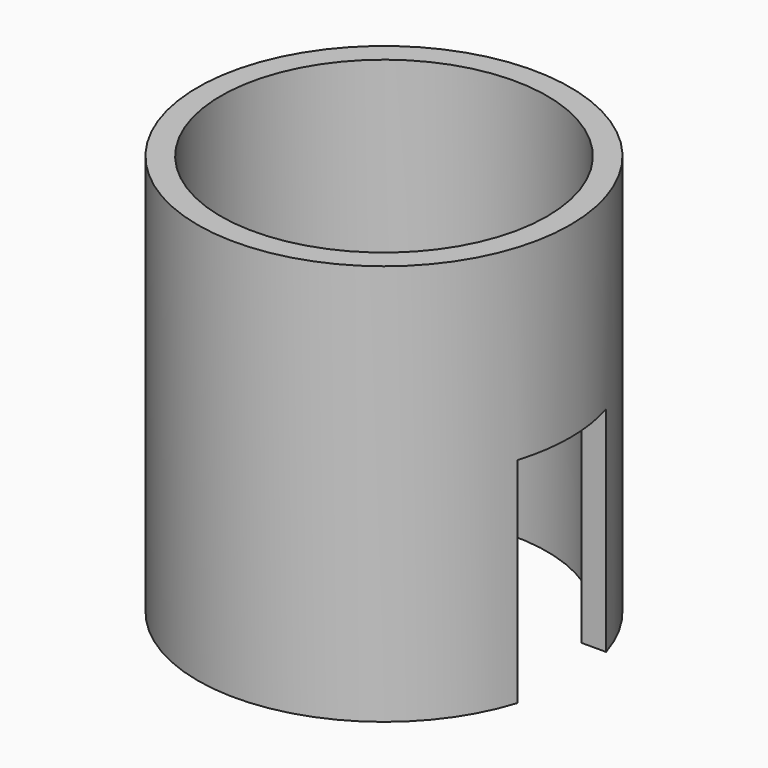
from build123d import *

# Parameters (mm, degrees)
SKETCH_R     = 20.9
SKETCH_R_2   = 18.3
PAD_DEPTH    = 45
SKETCH001_W  = 8.507418
SKETCH001_H  = 12.4
POCKET_DEPTH = 24


with BuildPart() as part:
    # Sketch → Pad (new body)
    with BuildSketch(Plane.XY):
        Circle(SKETCH_R)
        Circle(SKETCH_R_2, mode=Mode.SUBTRACT)
    extrude(amount=PAD_DEPTH)

    # Sketch001 (on Face3 of Pad) → Pocket (cut)
    with BuildSketch(Plane(origin=(0, 0, 0), x_dir=(1, 0, 0), z_dir=(0, 0, -1))):
        with Locations((20.392255, 0)):
            Rectangle(SKETCH001_W, SKETCH001_H)
    extrude(amount=-POCKET_DEPTH, mode=Mode.SUBTRACT)


solid = part.part
